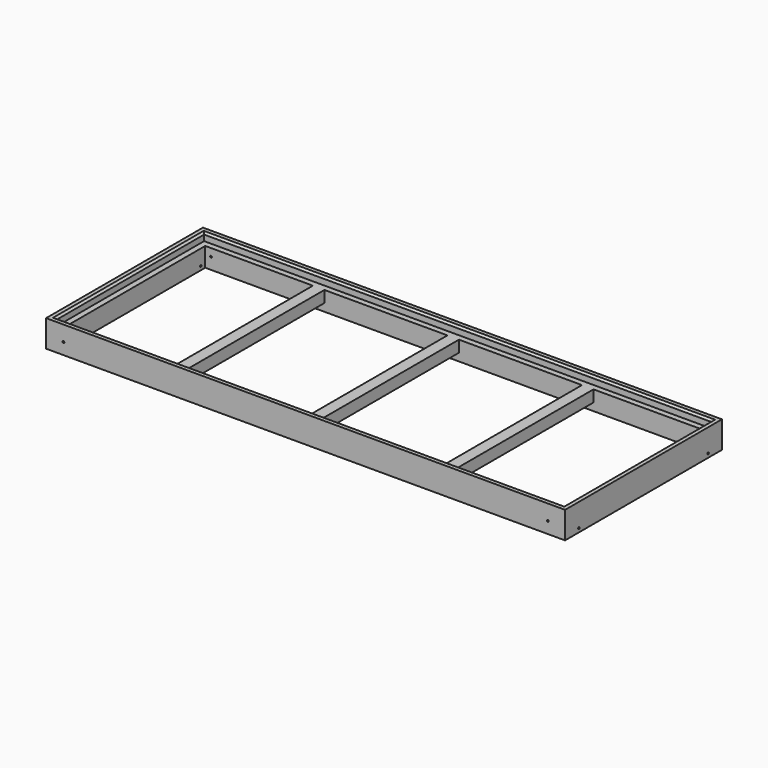
from build123d import *

# Parameters (mm, degrees)
F0_W      = 1714.5
F0_H      = 647.7
F0_W_2    = 1676.4
F0_H_2    = 609.6
F1_DEPTH  = 88.9
F2_W      = 1676.4
F2_H      = 609.6
F2_W_2    = 1638.3
F2_H_2    = 571.5
F3_DEPTH  = 63.5
F4_W      = 38.1
F4_H      = 571.5
F5_DEPTH  = 38.1
F6_R      = 3.175
F7_DEPTH  = 647.701
F8_R      = 3.175
F9_DEPTH  = 50.8
F10_R     = 3.175
F11_DEPTH = 50.8
F12_SIZE  = 6.35


with BuildPart() as f1:
    # F0 (on Top) → F1 (new body)
    with BuildSketch(Plane.XY):
        Rectangle(F0_W, F0_H)
        Rectangle(F0_W_2, F0_H_2, mode=Mode.SUBTRACT)
    extrude(amount=F1_DEPTH)

    # F2 (on face) → F3 (join)
    with BuildSketch(Plane(origin=(0, 0, 0), x_dir=(1, 0, 0), z_dir=(0, 0, -1))):
        Rectangle(F2_W, F2_H)
        Rectangle(F2_W_2, F2_H_2, mode=Mode.SUBTRACT)
    extrude(amount=-F3_DEPTH)

    # F4 (on face) → F5 (join)
    with BuildSketch(Plane.XY.offset(63.5)):
        Rectangle(F4_W, F4_H)
        with Locations((444.5, 0)):
            Rectangle(F4_W, F4_H)
        with Locations((-444.5, 0)):
            Rectangle(F4_W, F4_H)
    extrude(amount=-F5_DEPTH)

    # F6 (on face) → F7 (cut, through all)
    with BuildSketch(Plane.XZ.offset(323.85)):
        with Locations((-800.1, 38.1)):
            Circle(F6_R)
        with Locations((800.1, 38.1)):
            Circle(F6_R)
    extrude(amount=-F7_DEPTH, mode=Mode.SUBTRACT)

    # F8 (on face) → F9 (cut)
    with BuildSketch(Plane.YZ.offset(857.25)):
        with Locations((-266.7, 12.7)):
            Circle(F8_R)
        with Locations((266.7, 12.7)):
            Circle(F8_R)
    extrude(amount=-F9_DEPTH, mode=Mode.SUBTRACT)

    # F10 (on face) → F11 (cut)
    with BuildSketch(Plane(origin=(-857.25, 0, 0), x_dir=(0, -1, 0), z_dir=(-1, 0, 0))):
        with Locations((-266.7, 12.7)):
            Circle(F10_R)
        with Locations((266.7, 12.7)):
            Circle(F10_R)
    extrude(amount=-F11_DEPTH, mode=Mode.SUBTRACT)

    # F12
    f12_edges = [f1.edges().sort_by_distance(p)[0] for p in [
        (0, 304.8, 88.9),
        (838.2, 0, 88.9),
        (-838.2, 0, 88.9),
        (0, -304.8, 88.9),
    ]]
    chamfer(f12_edges, length=F12_SIZE)


solid = f1.part
